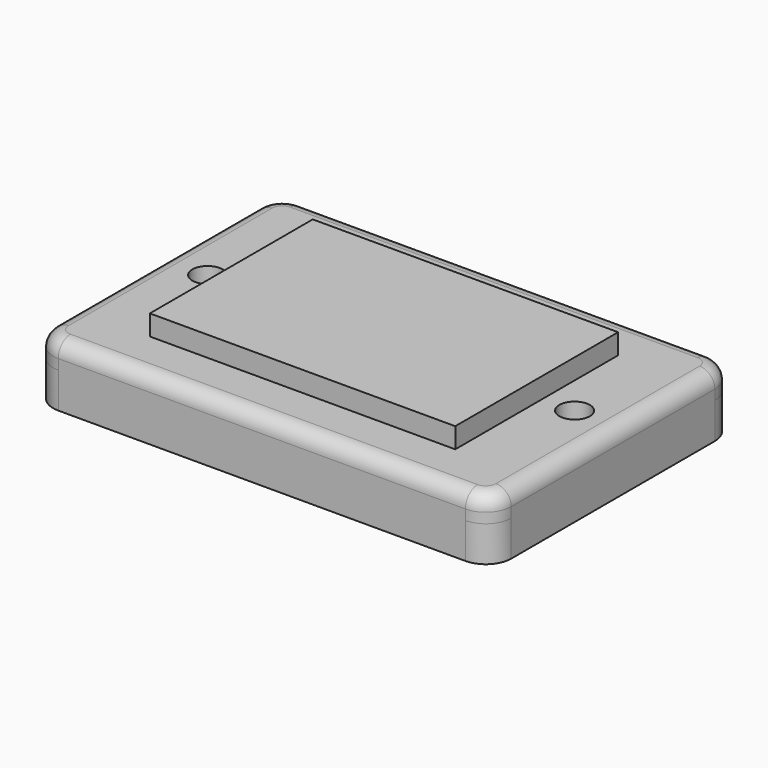
from build123d import *

# Parameters (mm, degrees)
F0_W      = 90
F0_H      = 60
F1_DEPTH  = 5
F2_W      = 60
F2_H      = 40
F3_DEPTH  = 4
F4_R      = 5
F5_R      = 3
F7_R      = 3
F8_DEPTH  = 10
F9_R      = 3
F10_DEPTH = 7
F11_W     = 80
F11_H     = 50
F11_R     = 3
F12_DEPTH = 7
F13_R     = 3.75
F14_DEPTH = 5
F15_R     = 3.7177308685
F16_DEPTH = 5


with BuildPart() as f1:
    # F0 (on Top) → F1 (new body)
    with BuildSketch(Plane.XY):
        with Locations((0, -1.4884271659)):
            Rectangle(F0_W, F0_H)
    extrude(amount=F1_DEPTH)

    # F2 (on face) → F3 (join)
    with BuildSketch(Plane.XY.offset(5)):
        with Locations((0, -1.4884271659)):
            Rectangle(F2_W, F2_H)
    extrude(amount=F3_DEPTH)

    # F4
    f4_edges = [f1.edges().sort_by_distance(p)[0] for p in [
        (-45, 28.511573, 2.5),
        (45, 28.511573, 2.5),
        (45, -31.488427, 2.5),
        (-45, -31.488427, 2.5),
    ]]
    fillet(f4_edges, radius=F4_R)

    # F5
    f5_edges = [f1.edges().sort_by_distance(p)[0] for p in [
        (0, 28.511573, 5),
    ]]
    fillet(f5_edges, radius=F5_R)

    # F7 (on Top) → F8 (cut)
    with BuildSketch(Plane.XY):
        with Locations((-35.8441621065, 0)):
            Circle(F7_R)
        with Locations((36.2529978156, 0)):
            Circle(F7_R)
    extrude(amount=F8_DEPTH, mode=Mode.SUBTRACT)

    # F9 (on face) → F10 (join)
    with BuildSketch(Plane(origin=(0, 0, 0), x_dir=(1, 0, 0), z_dir=(0, 0, -1))):
        with BuildLine():
            ThreePointArc((40, -28.5115728341), (43.5355339059, -27.04710674), (45, -23.5115728341))
            Line((45, -23.5115728341), (45, 26.4884271659))
            ThreePointArc((45, 26.4884271659), (43.5355339059, 30.0239610718), (40, 31.4884271659))
            Line((40, 31.4884271659), (-40, 31.4884271659))
            ThreePointArc((-40, 31.4884271659), (-43.5355339059, 30.0239610718), (-45, 26.4884271659))
            Line((-45, 26.4884271659), (-45, -23.5115728341))
            ThreePointArc((-45, -23.5115728341), (-43.5355339059, -27.04710674), (-40, -28.5115728341))
            Line((-40, -28.5115728341), (40, -28.5115728341))
        make_face()
        with Locations((-35.8441621065, 0)):
            Circle(F9_R, mode=Mode.SUBTRACT)
        with Locations((36.2529978156, 0)):
            Circle(F9_R, mode=Mode.SUBTRACT)
    extrude(amount=F10_DEPTH)

    # F11 (on face) → F12 (cut)
    with BuildSketch(Plane(origin=(0, 0, -7), x_dir=(1, 0, 0), z_dir=(0, 0, -1))):
        with Locations((0, 1.4884271659)):
            Rectangle(F11_W, F11_H)
        with Locations((-35.8441621065, 0)):
            Circle(F11_R, mode=Mode.SUBTRACT)
        with Locations((36.2529978156, 0)):
            Circle(F11_R, mode=Mode.SUBTRACT)
    extrude(amount=-F12_DEPTH, mode=Mode.SUBTRACT)

    # F13 (on face) → F14 (join)
    with BuildSketch(Plane(origin=(0, 0, 0), x_dir=(1, 0, 0), z_dir=(0, 0, -1))):
        with Locations((-35.8441621065, 0)):
            Circle(F13_R)
    extrude(amount=F14_DEPTH)

    # F15 (on face) → F16 (join)
    with BuildSketch(Plane(origin=(0, 0, 0), x_dir=(1, 0, 0), z_dir=(0, 0, -1))):
        with Locations((36.2529978156, 0)):
            Circle(F15_R)
    extrude(amount=F16_DEPTH)


solid = f1.part
